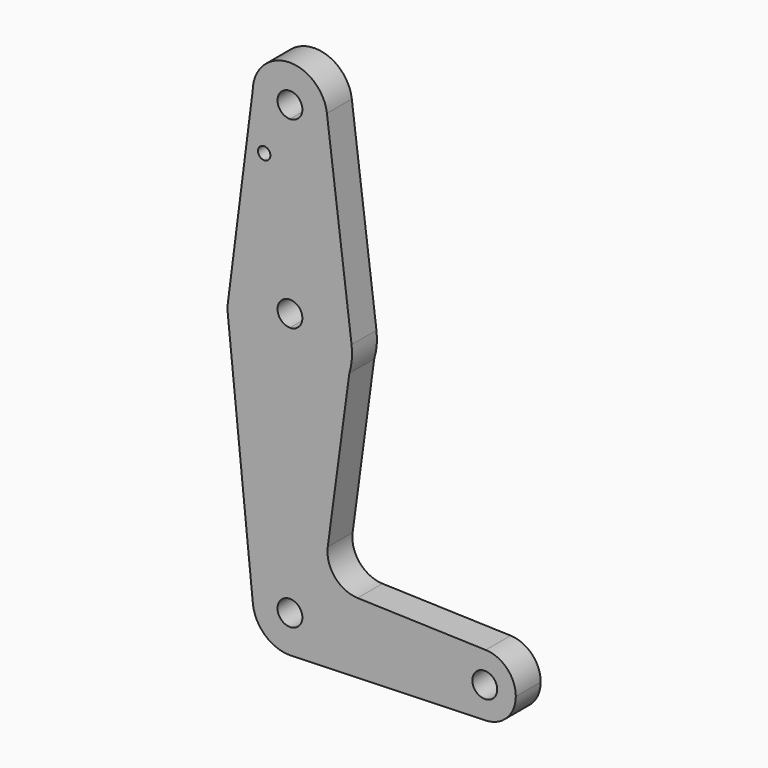
from build123d import *

# Parameters (mm, degrees)
F0_R     = 1.5875
F1_DEPTH = 7.9502


with BuildPart() as f1:
    # F0 (on Front) → F1 (new body)
    with BuildSketch(Plane.XZ):
        with BuildLine():
            Line((0, 12.0413007322), (0, 37.4413007322))
            ThreePointArc((0, 37.4413007322), (-6.7801009863, 40.2763189971), (-9.5241473512, 47.0937457472))
            Line((-9.5241473512, 47.0937457472), (-15.7480782934, -1.8302884103))
            ThreePointArc((-15.7480782934, -1.8302884103), (-10.4931281713, 8.0788943281), (0, 12.0413007322))
        make_face()
        with Locations((-6.5820463933, 33.9521430433)):
            Circle(F0_R, mode=Mode.SUBTRACT)
        with BuildLine():
            ThreePointArc((9.525, 46.9663007322), (6.7351920908, 40.2311086414), (0, 37.4413007322))
            Line((0, 37.4413007322), (0, 12.0413007322))
            ThreePointArc((0, 12.0413007322), (10.5003255158, 8.0725507322), (15.7504882737, -1.8493242678))
            Line((15.7504882737, -1.8493242678), (9.4502929642, 48.1569257322))
            ThreePointArc((9.4502929642, 48.1569257322), (9.5063048942, 47.5627839741), (9.525, 46.9663007322))
        make_face()
        with BuildLine():
            ThreePointArc((-9.5241473512, 47.0937457472), (-6.7801009863, 40.2763189971), (0, 37.4413007322))
            ThreePointArc((0, 37.4413007322), (6.7351920908, 40.2311086414), (9.525, 46.9663007322))
            ThreePointArc((9.525, 46.9663007322), (9.5063048942, 47.5627839741), (9.4502929642, 48.1569257322))
            ThreePointArc((9.4502929642, 48.1569257322), (-0.5328710329, 56.4763834585), (-9.5241473512, 47.0937457472))
        make_face()
        with BuildLine():
            ThreePointArc((3.175, 46.9663007322), (2.2450640303, 44.7212367019), (0, 43.7913007322))
            ThreePointArc((0, 43.7913007322), (-2.2450640303, 49.2113647624), (3.175, 46.9663007322))
        make_face(mode=Mode.SUBTRACT)
        with BuildLine():
            ThreePointArc((15.7504882737, -1.8493242678), (10.5003255158, 8.0725507322), (0, 12.0413007322))
            Line((0, 12.0413007322), (0, 3.175))
            ThreePointArc((0, 3.175), (2.2450640303, 2.2450640303), (3.175, 0))
            ThreePointArc((3.175, 0), (2.2450640303, -2.2450640303), (0, -3.175))
            Line((0, -3.175), (0, -19.7086992678))
            ThreePointArc((0, -19.7086992678), (9.4368838065, -16.5993112399), (15.1770200819, -8.4891999321))
            ThreePointArc((15.1770200819, -8.4891999321), (15.6995353243, -6.1874655265), (15.875, -3.8336992678))
            ThreePointArc((15.875, -3.8336992678), (15.8438414904, -2.8395605312), (15.7504882737, -1.8493242678))
        make_face()
        with BuildLine():
            Line((0, 3.175), (0, 12.0413007322))
            ThreePointArc((0, 12.0413007322), (-10.4931281713, 8.0788943281), (-15.7480782934, -1.8302884103))
            ThreePointArc((-15.7480782934, -1.8302884103), (-11.9125935959, -14.3268274391), (0, -19.7086992678))
            Line((0, -19.7086992678), (0, -3.175))
            ThreePointArc((0, -3.175), (-3.175, 0), (0, 3.175))
        make_face()
        with BuildLine():
            ThreePointArc((0, -19.7086992678), (-11.9125935959, -14.3268274391), (-15.7480782934, -1.8302884103))
            Line((-15.7480782934, -1.8302884103), (-16.0137054558, -3.9182859294))
            Line((-16.0137054558, -3.9182859294), (-9.4762655267, -68.2959968664))
            ThreePointArc((-9.4762655267, -68.2959968664), (-7.067231057, -60.9477874154), (0, -57.8086992678))
            Line((0, -57.8086992678), (0, -19.7086992678))
        make_face()
        with BuildLine():
            ThreePointArc((15.1770200819, -8.4891999321), (9.4368838065, -16.5993112399), (0, -19.7086992678))
            Line((0, -19.7086992678), (0, -57.8086992678))
            ThreePointArc((0, -57.8086992678), (6.7351920908, -60.598507177), (9.525, -67.3336992678))
            Line((9.525, -67.3336992678), (41.8581225716, -67.3336992678))
            ThreePointArc((41.8581225716, -67.3336992678), (44.2728781992, -61.6325414164), (50.0479054623, -59.4002095191))
            Line((50.0479054623, -59.4002095191), (17.2861640166, -58.3583947443))
            ThreePointArc((17.2861640166, -58.3583947443), (11.470504938, -55.5484416885), (9.6601438639, -49.3484159244))
            Line((9.6601438639, -49.3484159244), (15.1770200819, -8.4891999321))
        make_face()
        with BuildLine():
            Line((41.8581225716, -67.3336992678), (9.525, -67.3336992678))
            ThreePointArc((9.525, -67.3336992678), (6.9458584111, -73.8514194163), (0.6051730325, -76.8394549243))
            Line((0.6051730325, -76.8394549243), (50.0479054623, -75.2671890166))
            ThreePointArc((50.0479054623, -75.2671890166), (44.2728781992, -73.0348571193), (41.8581225716, -67.3336992678))
        make_face()
        with BuildLine():
            Line((0, -64.1586992678), (0, -57.8086992678))
            ThreePointArc((0, -57.8086992678), (-7.067231057, -60.9477874154), (-9.4762655267, -68.2959968664))
            ThreePointArc((-9.4762655267, -68.2959968664), (-6.3859118524, -74.4009303248), (0, -76.8586992678))
            Line((0, -76.8586992678), (0.6051730325, -76.8394549243))
            ThreePointArc((0.6051730325, -76.8394549243), (6.9458584111, -73.8514194163), (9.525, -67.3336992678))
            Line((9.525, -67.3336992678), (3.175, -67.3336992678))
            ThreePointArc((3.175, -67.3336992678), (-2.2450640303, -69.5787632981), (0, -64.1586992678))
        make_face()
        with BuildLine():
            ThreePointArc((9.525, -67.3336992678), (6.7351920908, -60.598507177), (0, -57.8086992678))
            Line((0, -57.8086992678), (0, -64.1586992678))
            ThreePointArc((0, -64.1586992678), (2.2450640303, -65.0886352376), (3.175, -67.3336992678))
            Line((3.175, -67.3336992678), (9.525, -67.3336992678))
        make_face()
        with BuildLine():
            ThreePointArc((50.0479054623, -59.4002095191), (44.2728781992, -61.6325414164), (41.8581225716, -67.3336992678))
            ThreePointArc((41.8581225716, -67.3336992678), (44.2728781992, -73.0348571193), (50.0479054623, -75.2671890166))
            ThreePointArc((50.0479054623, -75.2671890166), (55.4967804231, -72.8564436402), (57.7331225716, -67.3336992678))
            ThreePointArc((57.7331225716, -67.3336992678), (55.4967804231, -61.8109548955), (50.0479054623, -59.4002095191))
        make_face()
        with BuildLine():
            ThreePointArc((52.9706225716, -67.3336992678), (49.7956225716, -70.5086992678), (46.6206225716, -67.3336992678))
            ThreePointArc((46.6206225716, -67.3336992678), (49.7956225716, -64.1586992678), (52.9706225716, -67.3336992678))
        make_face(mode=Mode.SUBTRACT)
    extrude(amount=F1_DEPTH)


solid = f1.part
